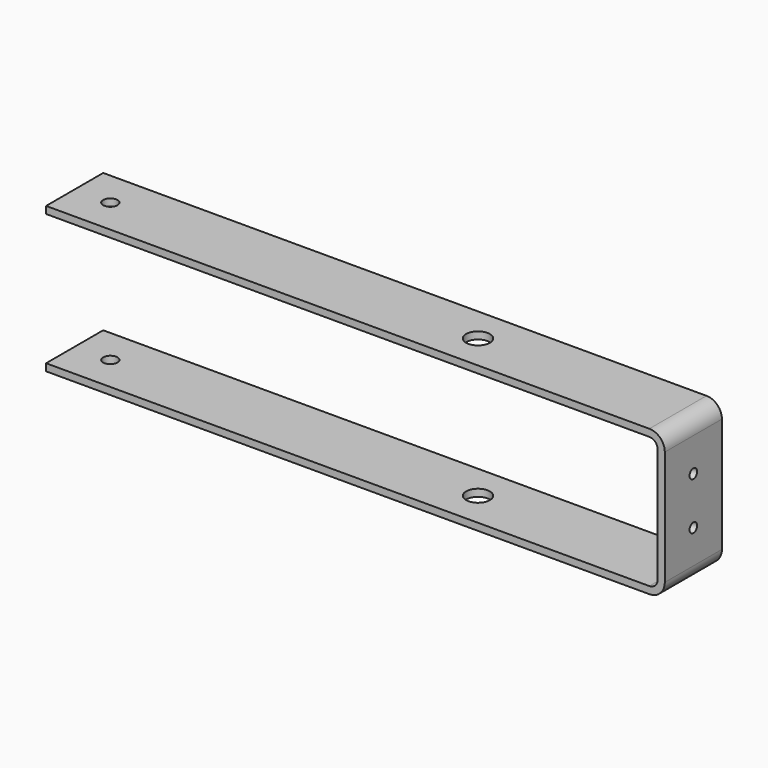
from build123d import *

# Parameters (mm, degrees)
F2_W     = 30
F2_H     = 3
F4_R     = 5
F5_DEPTH = 61.201
F6_R     = 2
F7_DEPTH = 260.001
F8_R     = 3
F9_DEPTH = 61.201


with BuildPart() as f3:
    # F3: sweep along a path in F0
    with BuildLine(Plane.XZ) as f3_path:
        Line((-258.5, 29.1), (-5, 29.1))
        ThreePointArc((-5, 29.1), (-1.4644660941, 27.6355339059), (0, 24.1))
        Line((0, 24.1), (0, -24.1))
        ThreePointArc((0, -24.1), (-1.4644660941, -27.6355339059), (-5, -29.1))
        Line((-5, -29.1), (-258.5, -29.1))
    # F2 (on plane+point) → F3 (sweep)
    with BuildSketch(Plane.YZ.offset(-258.5)):
        with Locations((0, 29.1)):
            Rectangle(F2_W, F2_H)
    sweep(path=f3_path.line)

    # F4 (on face) → F5 (cut, through all)
    with BuildSketch(Plane(origin=(0, 0, -30.6), x_dir=(1, 0, 0), z_dir=(0, 0, -1))):
        with Locations((-89, 0)):
            Circle(F4_R)
    extrude(amount=-F5_DEPTH, mode=Mode.SUBTRACT)

    # F6 (on face) → F7 (cut, through all)
    with BuildSketch(Plane.YZ.offset(1.5)):
        with Locations((0, 10)):
            Circle(F6_R)
        with Locations((0, -10)):
            Circle(F6_R)
    extrude(amount=-F7_DEPTH, mode=Mode.SUBTRACT)

    # F8 (on face) → F9 (cut, through all)
    with BuildSketch(Plane(origin=(0, 0, -30.6), x_dir=(1, 0, 0), z_dir=(0, 0, -1))):
        with Locations((-243.5, 0)):
            Circle(F8_R)
    extrude(amount=-F9_DEPTH, mode=Mode.SUBTRACT)


solid = f3.part
